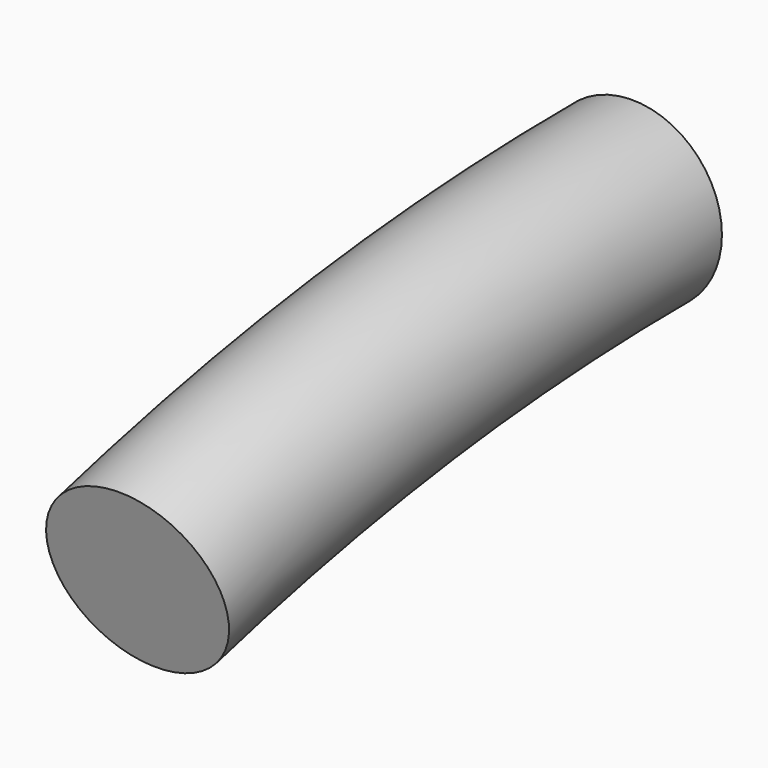
from build123d import *

# Parameters (mm, degrees)
F0_R     = 30
F1_ANGLE = 15


with BuildPart() as f1:
    # F0 (on Front) → F1 (revolve)
    with BuildSketch(Plane.XZ):
        Circle(F0_R)
    revolve(axis=Axis((32.279458, 0, -800), (1, 0, 0)), revolution_arc=F1_ANGLE)


solid = f1.part
